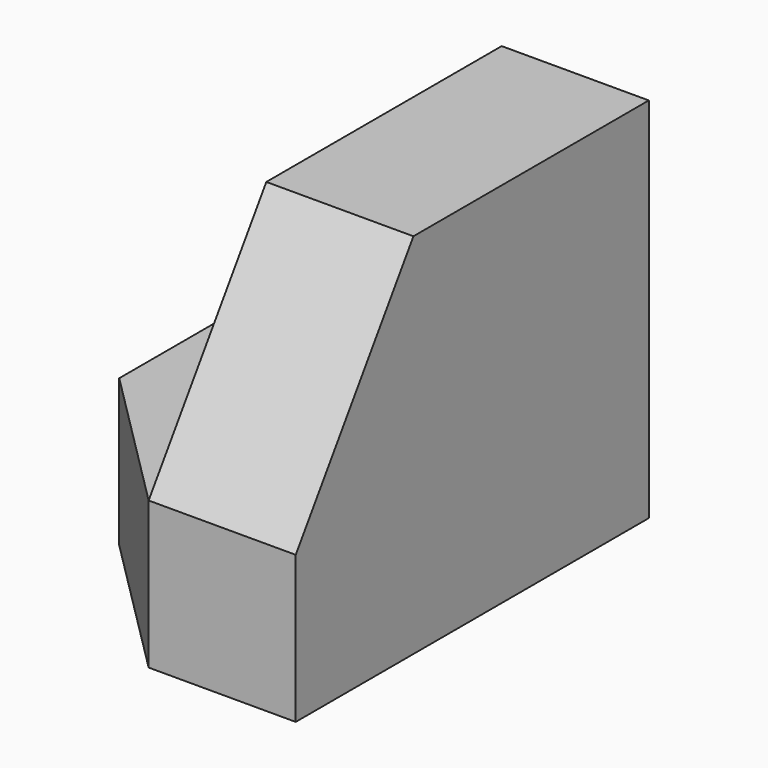
from build123d import *

# Parameters (mm, degrees)
F1_DEPTH = 38.1
F4_DEPTH = 12.7
F6_DEPTH = 12.7


with BuildPart() as f1:
    # F0 (on Front) → F1 (new body)
    with BuildSketch(Plane.XZ):
        Polygon((19.820336, 48.183794), (7.120336, 48.183794), (7.120336, 29.133794), (-5.579664, 29.133794), (-5.579664, 16.433794), (19.820336, 16.433794), align=None)
    extrude(amount=F1_DEPTH)

    # F3 (on face) → F4 (cut)
    with BuildSketch(Plane.YZ.offset(19.820336)):
        Polygon((-38.1, 29.133794), (-25.4, 48.183794), (-38.1, 48.183794), align=None)
    extrude(amount=-F4_DEPTH, mode=Mode.SUBTRACT)

    # F5 (on face) → F6 (cut)
    with BuildSketch(Plane.XY.offset(29.133794)):
        Polygon((-5.579664, -38.1), (7.120336, -38.1), (-5.579664, -25.4), align=None)
    extrude(amount=-F6_DEPTH, mode=Mode.SUBTRACT)


solid = f1.part
